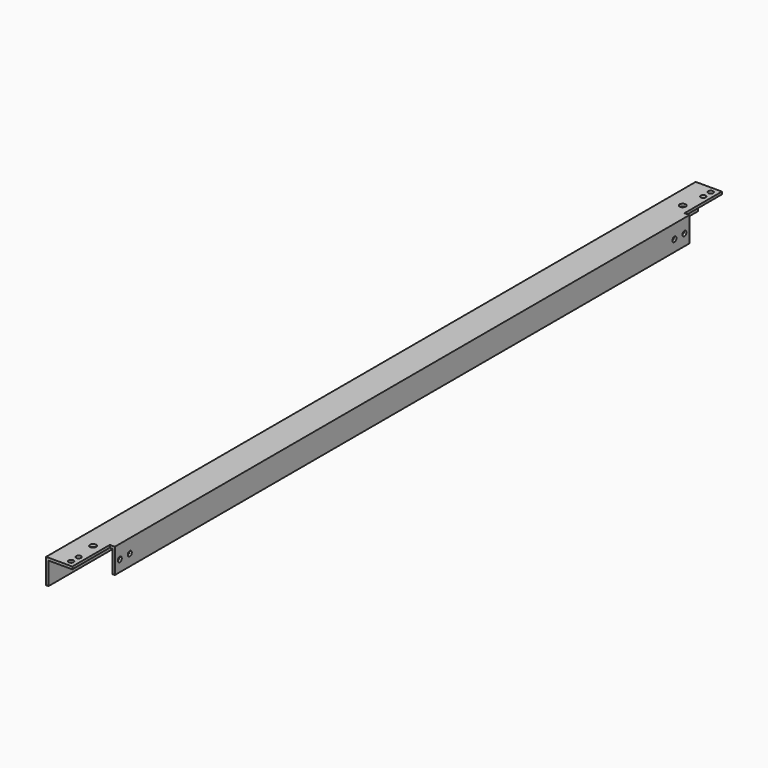
from build123d import *

# Parameters (mm, degrees)
F1_DEPTH   = 650
F2_W       = 75
F2_H       = 40
F3_DEPTH   = 8
F5_D       = 8
F5_ON_F2_D = 8
F6_D       = 10


with BuildPart() as f1:
    # F0 (on Front) → F1 (new body, symmetric)
    with BuildSketch(Plane.XZ):
        Polygon((21, -20), (25, -20), (25, 20), (-25, 20), (-25, -20), (-21, -20), (-21, 16), (21, 16), align=None)
    extrude(amount=F1_DEPTH, both=True)

    # F2 (on face) → F3 (cut)
    with BuildSketch(Plane.YZ.offset(25)):
        with Locations((-612.5, 0)):
            Rectangle(F2_W, F2_H)
        with Locations((612.5, 0)):
            Rectangle(F2_W, F2_H)
    extrude(amount=-F3_DEPTH, mode=Mode.SUBTRACT)

    # F5 (through all)
    with Locations(Plane.XY.offset(20)):
        with Locations((7, -625), (7, -640), (7, 640), (7, 625)):
            Hole(F5_D / 2)

    # F5 on F2 (through all)
    with Locations(Plane.YZ.offset(25)):
        with Locations((-565, -2), (-545, -2), (565, -2), (545, -2)):
            Hole(F5_ON_F2_D / 2)

    # F6 (through all)
    with Locations(Plane.XY.offset(20)):
        with Locations((2.25, -590), (2.25, 590)):
            Hole(F6_D / 2)


solid = f1.part
